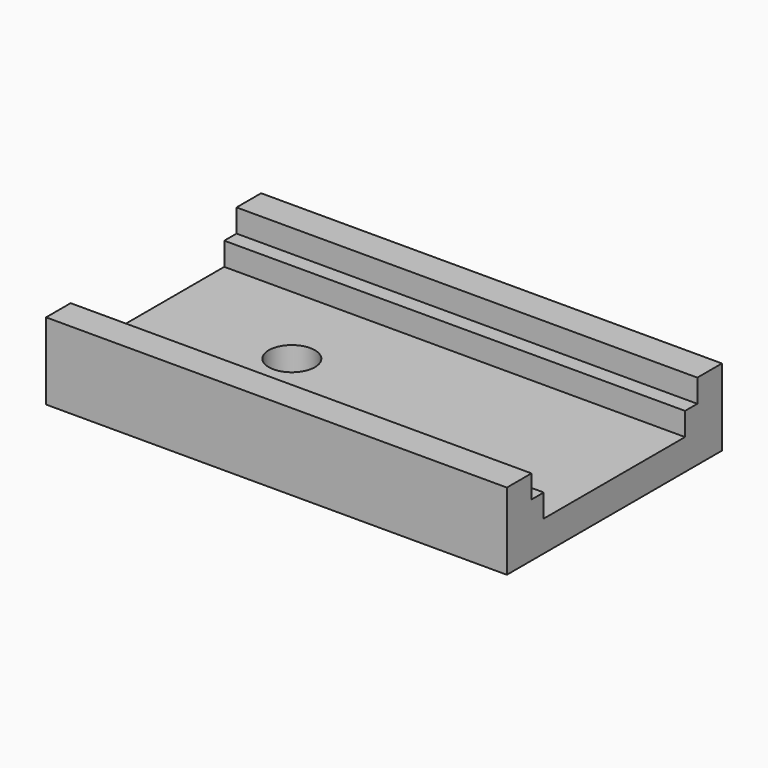
from build123d import *

# Parameters (mm, degrees)
F0_W     = 30
F0_H     = 17.5
F1_DEPTH = 2
F2_R     = 1.5
F3_DEPTH = 25
F4_W     = 30
F4_H     = 2
F5_DEPTH = 3
F6_W     = 30
F6_H     = 1
F7_DEPTH = 1.5


with BuildPart() as f1:
    # F0 (on Top) → F1 (new body)
    with BuildSketch(Plane.XY):
        with Locations((-15, 8.75)):
            Rectangle(F0_W, F0_H)
    extrude(amount=F1_DEPTH)

    # F2 (on face) → F3 (cut)
    with BuildSketch(Plane.XY.offset(2)):
        with Locations((-21, 8.75)):
            Circle(F2_R)
    extrude(amount=-F3_DEPTH, mode=Mode.SUBTRACT)

    # F4 (on face) → F5 (join)
    with BuildSketch(Plane.XY.offset(2)):
        with Locations((-15, 16.5)):
            Rectangle(F4_W, F4_H)
        with Locations((-15, 1)):
            Rectangle(F4_W, F4_H)
    extrude(amount=F5_DEPTH)

    # F6 (on face) → F7 (join)
    with BuildSketch(Plane.XY.offset(2)):
        with Locations((-15, 15)):
            Rectangle(F6_W, F6_H)
        with Locations((-15, 2.5)):
            Rectangle(F6_W, F6_H)
    extrude(amount=F7_DEPTH)


solid = f1.part
